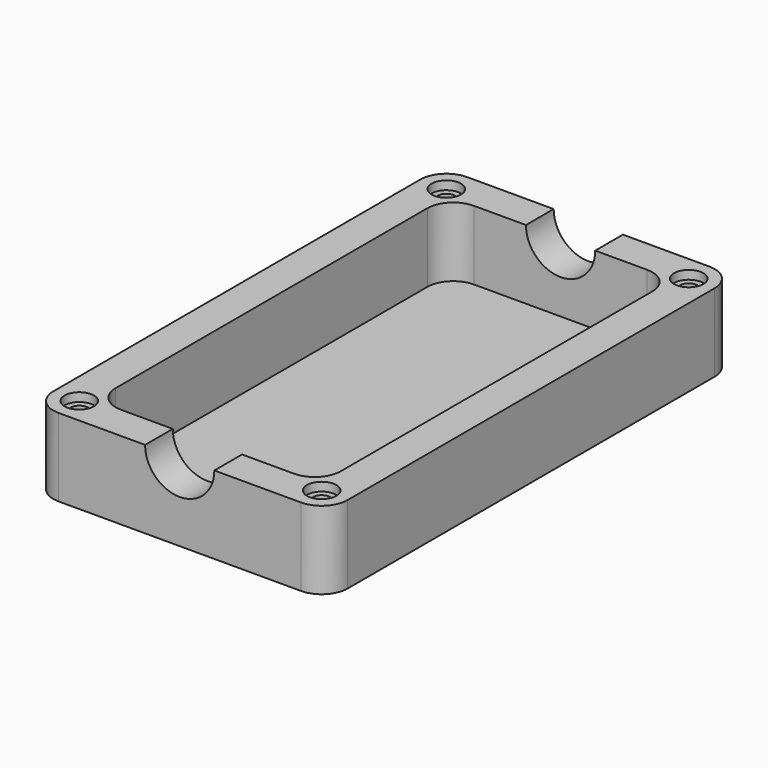
from build123d import *

# Parameters (mm, degrees)
SKETCH008_W                   = 34
SKETCH008_H                   = 59
PAD002_DEPTH                  = 9
SKETCH009_W                   = 26
SKETCH009_H                   = 51
POCKET005_DEPTH               = 8
FILLET003_R                   = 3
SKETCH010_R                   = 1
POCKET006_DEPTH               = 4
SKETCH010_MIRRORED004_2_R     = 1
POCKET006_MIRRORED004_2_DEPTH = 4
SKETCH011_R                   = 1.7
POCKET007_DEPTH               = 1
SKETCH011_MIRRORED006_2_R     = 1.7
POCKET007_MIRRORED006_2_DEPTH = 1
SKETCH016_R                   = 4
POCKET011_DEPTH               = 59.001


with BuildPart() as part:
    # Sketch008 → Pad002 (new body)
    with BuildSketch(Plane.XY):
        Rectangle(SKETCH008_W, SKETCH008_H)
    extrude(amount=PAD002_DEPTH)

    # Sketch009 (on Face6 of Pad002) → Pocket005 (cut)
    with BuildSketch(Plane.XY.offset(9)):
        Rectangle(SKETCH009_W, SKETCH009_H)
    extrude(amount=-POCKET005_DEPTH, mode=Mode.SUBTRACT)

    # Fillet003
    fillet003_edges = [part.edges().sort_by_distance(p)[0] for p in [
        (-13, 25.5, 5),
        (-17, 29.5, 4.5),
        (17, 29.5, 4.5),
        (13, 25.5, 5),
        (17, -29.5, 4.5),
        (13, -25.5, 5),
        (-13, -25.5, 5),
        (-17, -29.5, 4.5),
    ]]
    fillet(fillet003_edges, radius=FILLET003_R)

    # Sketch010 (on Face5 of Fillet003) → Pocket006 (cut)
    with BuildSketch(Plane.XY.offset(9)):
        with Locations((-14, 26.5)):
            Circle(SKETCH010_R)
    pocket006 = extrude(amount=-POCKET006_DEPTH, mode=Mode.SUBTRACT)

    # Sketch010 Mirrored004 2 → Pocket006 Mirrored004 2 (cut)
    with BuildSketch(Plane(origin=(0, 0, 9), x_dir=(-1, 0, 0), z_dir=(0, 0, -1))):
        with Locations((-14, 26.5)):
            Circle(SKETCH010_MIRRORED004_2_R)
    pocket006_mirrored004_2 = extrude(amount=POCKET006_MIRRORED004_2_DEPTH, mode=Mode.SUBTRACT)

    # Mirrored005: Pocket006, Pocket006 Mirrored004 2 across Sketch010 H_Axis
    add(pocket006.mirror(Plane(origin=(0, 0, 9), x_dir=(0, 0, 1), z_dir=(0, 1, 0))), mode=Mode.SUBTRACT)
    add(pocket006_mirrored004_2.mirror(Plane(origin=(0, 0, 9), x_dir=(0, 0, 1), z_dir=(0, 1, 0))), mode=Mode.SUBTRACT)

    # Sketch011 (on Face5 of MultiTransform002) → Pocket007 (cut)
    with BuildSketch(Plane.XY.offset(9)):
        with Locations((-14, 26.5)):
            Circle(SKETCH011_R)
    pocket007 = extrude(amount=-POCKET007_DEPTH, mode=Mode.SUBTRACT)

    # Sketch011 Mirrored006 2 → Pocket007 Mirrored006 2 (cut)
    with BuildSketch(Plane(origin=(0, 0, 9), x_dir=(-1, 0, 0), z_dir=(0, 0, -1))):
        with Locations((-14, 26.5)):
            Circle(SKETCH011_MIRRORED006_2_R)
    pocket007_mirrored006_2 = extrude(amount=POCKET007_MIRRORED006_2_DEPTH, mode=Mode.SUBTRACT)

    # Mirrored007: Pocket007, Pocket007 Mirrored006 2 across Sketch011 H_Axis
    add(pocket007.mirror(Plane(origin=(0, 0, 9), x_dir=(0, 0, 1), z_dir=(0, 1, 0))), mode=Mode.SUBTRACT)
    add(pocket007_mirrored006_2.mirror(Plane(origin=(0, 0, 9), x_dir=(0, 0, 1), z_dir=(0, 1, 0))), mode=Mode.SUBTRACT)

    # Sketch016 (on Face10 of MultiTransform003) → Pocket011 (cut, through all)
    with BuildSketch(Plane.XZ.offset(29.5)):
        with Locations((0, 9)):
            Circle(SKETCH016_R)
    extrude(amount=-POCKET011_DEPTH, mode=Mode.SUBTRACT)


solid = part.part
